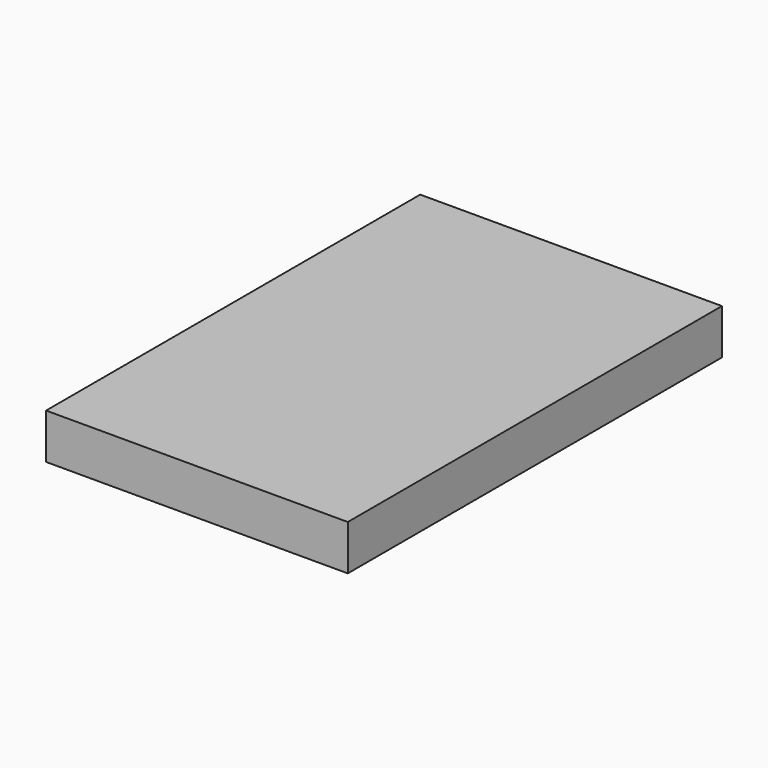
from build123d import *

# Parameters (mm, degrees)
SKETCH_W  = 200
SKETCH_H  = 310
PAD_DEPTH = 30


with BuildPart() as part:
    # Sketch → Pad (new body)
    with BuildSketch(Plane.XY):
        with Locations((100, 155)):
            Rectangle(SKETCH_W, SKETCH_H)
    extrude(amount=PAD_DEPTH)


solid = part.part
